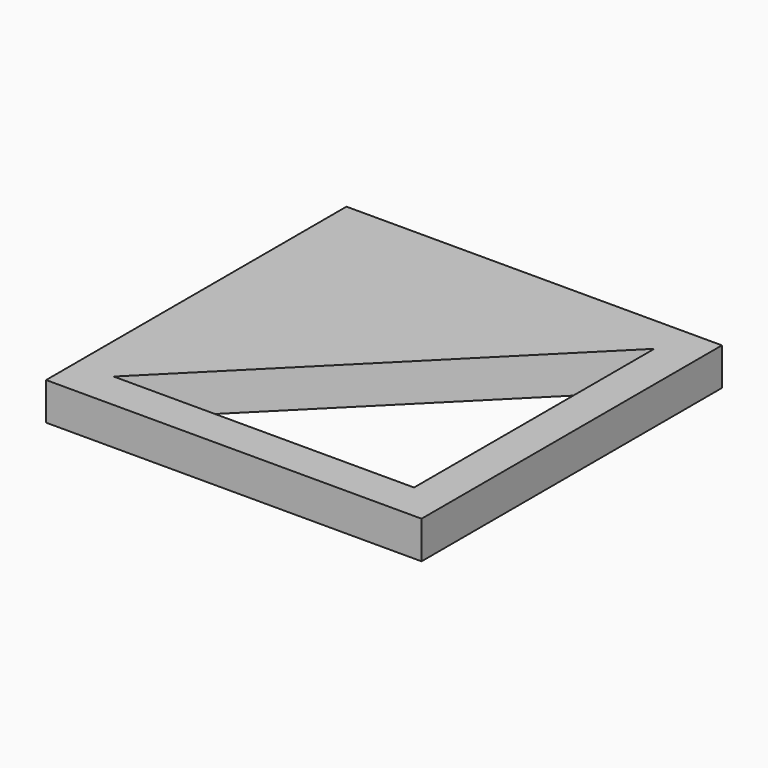
from build123d import *

# Parameters (mm, degrees)
F0_W     = 30
F0_H     = 30
F1_DEPTH = 3


with BuildPart() as f1:
    # F0 (on Top) → F1 (new body)
    with BuildSketch(Plane.XY):
        Rectangle(F0_W, F0_H)
        Polygon((-12, -12), (12, 12), (12, -12), align=None, mode=Mode.SUBTRACT)
    extrude(amount=F1_DEPTH)


solid = f1.part
